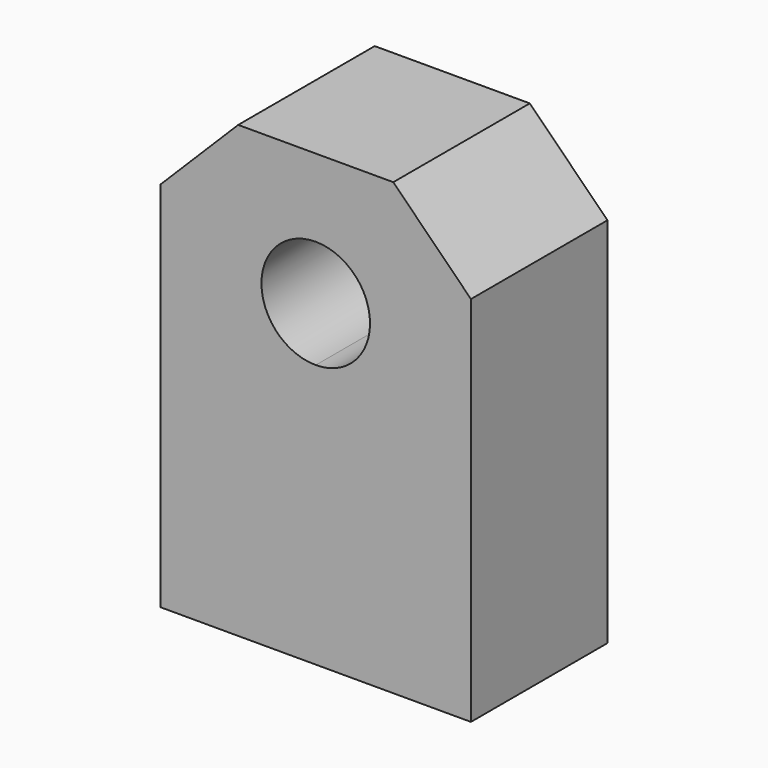
from build123d import *

# Parameters (mm, degrees)
F0_W     = 20.0025
F0_H     = 28.9941
F1_DEPTH = 21.9964
F2_SIZE  = 10.0076


with BuildPart() as f1:
    # F0 (on Front) → F1 (new body)
    with BuildSketch(Plane.XZ):
        with Locations((10.00125, -14.49705)):
            Rectangle(F0_W, F0_H)
        with BuildLine():
            Line((0, 4.9911), (0, 0))
            Line((0, 0), (20.0025, 0))
            Line((20.0025, 0), (20.0025, 28.9941))
            Line((20.0025, 28.9941), (0, 28.9941))
            Line((0, 28.9941), (0, 18.9865))
            ThreePointArc((0, 18.9865), (4.948121, 16.936921), (6.9977, 11.9888))
            ThreePointArc((6.9977, 11.9888), (4.948121, 7.040679), (0, 4.9911))
        make_face()
        with BuildLine():
            Line((-20.0025, 0), (0, 0))
            Line((0, 0), (0, 4.9911))
            ThreePointArc((0, 4.9911), (-6.9977, 11.9888), (0, 18.9865))
            Line((0, 18.9865), (0, 28.9941))
            Line((0, 28.9941), (-20.0025, 28.9941))
            Line((-20.0025, 28.9941), (-20.0025, 0))
        make_face()
        with Locations((-10.00125, -14.49705)):
            Rectangle(F0_W, F0_H)
    extrude(amount=F1_DEPTH)

    # F2
    f2_edges = [f1.edges().sort_by_distance(p)[0] for p in [
        (20.0025, -10.9982, 28.9941),
        (-20.0025, -10.9982, 28.9941),
    ]]
    chamfer(f2_edges, length=F2_SIZE)


solid = f1.part
